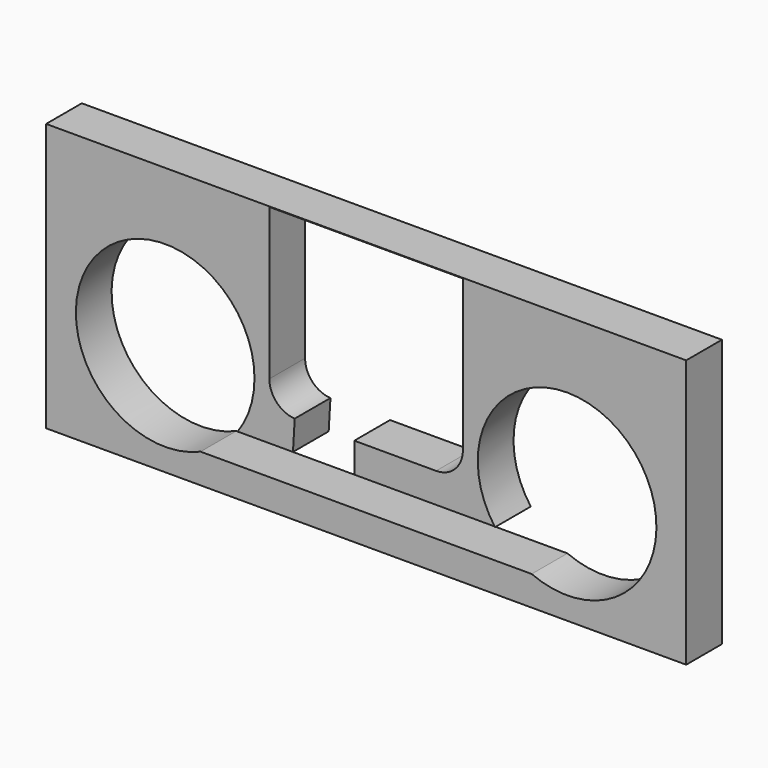
from build123d import *

# Parameters (mm, degrees)
F0_W     = 273.05
F0_H     = 114.3
F1_DEPTH = 19.05
F2_R     = 38.1
F3_DEPTH = 25.4
F5_DEPTH = 25.4
F6_DEPTH = 25.4
F8_DEPTH = 25.4


with BuildPart() as f1:
    # F0 (on Front) → F1 (new body)
    with BuildSketch(Plane.XZ):
        with Locations((136.525, 57.15)):
            Rectangle(F0_W, F0_H)
    extrude(amount=F1_DEPTH)

    # F2 (on Front) → F3 (cut)
    with BuildSketch(Plane.XZ):
        with Locations((50.8, 47.625)):
            Circle(F2_R)
        with Locations((222.25, 47.625)):
            Circle(F2_R)
    extrude(amount=F3_DEPTH, mode=Mode.SUBTRACT)

    # F4 (on Front) → F5 (cut)
    with BuildSketch(Plane.XZ):
        with BuildLine():
            Line((177.8, 114.074679), (95.25, 114.074679))
            Line((95.25, 114.074679), (95.25, 49.53))
            ThreePointArc((95.25, 49.53), (98.597769, 41.447769), (106.68, 38.1))
            Line((106.68, 38.1), (166.37, 38.1))
            ThreePointArc((166.37, 38.1), (174.452231, 41.447769), (177.8, 49.53))
            Line((177.8, 49.53), (177.8, 114.074679))
        make_face()
    extrude(amount=-F5_DEPTH, mode=Mode.SUBTRACT)

    # F4 (on Front) → F6 (cut)
    with BuildSketch(Plane.XZ):
        with BuildLine():
            Line((177.8, 114.074679), (95.25, 114.074679))
            Line((95.25, 114.074679), (95.25, 49.53))
            ThreePointArc((95.25, 49.53), (98.597769, 41.447769), (106.68, 38.1))
            Line((106.68, 38.1), (166.37, 38.1))
            ThreePointArc((166.37, 38.1), (174.452231, 41.447769), (177.8, 49.53))
            Line((177.8, 49.53), (177.8, 114.074679))
        make_face()
    extrude(amount=F6_DEPTH, mode=Mode.SUBTRACT)

    # F7 (on Front) → F8 (cut)
    with BuildSketch(Plane.XZ):
        Polygon((131.474693, 38.327217), (106.074693, 38.327217), (105.311239, 25.348496), (79.911239, 25.348496), (50.899979, 12.648496), (220.386818, 12.648496), (190.993831, 25.348496), (131.474693, 25.348496), align=None)
    extrude(amount=F8_DEPTH, mode=Mode.SUBTRACT)


solid = f1.part
